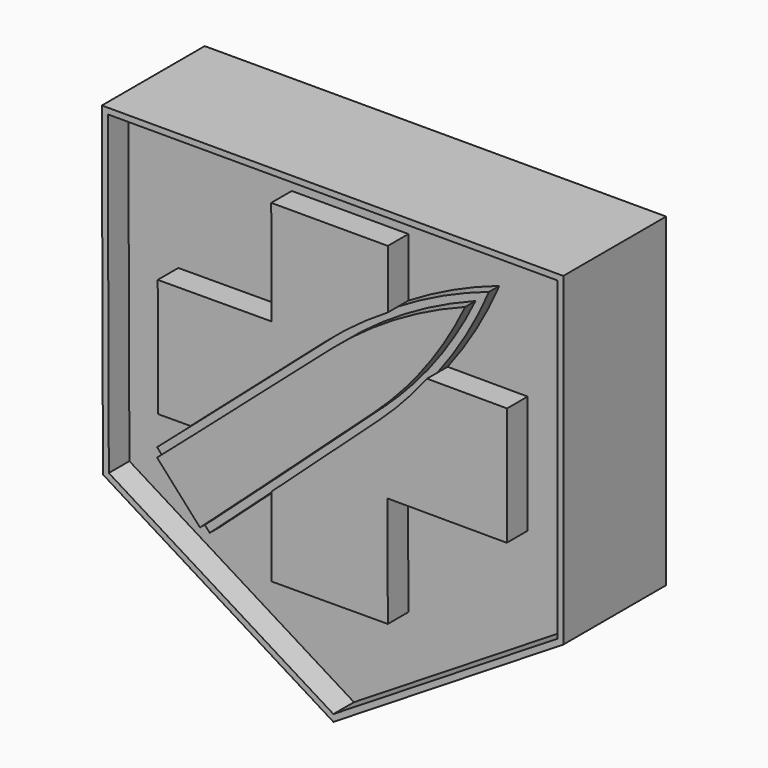
from build123d import *

# Parameters (mm, degrees)
F1_DEPTH = 5
F2_DEPTH = 4
F3_DEPTH = 5
F4_DEPTH = 5
F5_DEPTH = 4.5


with BuildPart() as f1:
    # F0 (on Front) → F1 (new body)
    with BuildSketch(Plane.XZ):
        Polygon((7.1913353167, 10.4446159676), (-10.7517978176, 10.4446159676), (-10.708829388, -2.177285729), (-1.7476085341, -7.7307592146), (7.1913353167, -2.177285729), align=None)
        Polygon((-10.4806626656, -2.0497477769), (-10.522418705, 10.2160163954), (6.9627357446, 10.2160163954), (6.9627357446, -2.0501829333), (-1.7477585324, -7.4617281697), align=None, mode=Mode.SUBTRACT)
    extrude(amount=F1_DEPTH)

    # F0 (on Front) → F2 (join)
    with BuildSketch(Plane.XZ):
        Polygon((6.9627357446, 10.2160163954), (-10.522418705, 10.2160163954), (-10.4806626656, -2.0497477769), (-1.7477585324, -7.4617281697), (6.9627357446, -2.0501829333), align=None)
        with BuildLine():
            Line((-4.15201168, 5.1967860028), (-4.1658212431, 9.2533212155))
            Line((-4.1658212431, 9.2533212155), (0.368804739, 9.2533212155))
            Line((0.368804739, 9.2533212155), (0.368804739, 6.9750594877))
            ThreePointArc((0.368804739, 6.9750594877), (2.0916244454, 7.900781968), (3.9068567567, 8.6287939921))
            ThreePointArc((3.9068567567, 8.6287939921), (3.007254254, 6.8532161956), (1.892815194, 5.2039779605))
            Line((1.892815194, 5.2039779605), (5.0046861868, 5.1967860028))
            Line((5.0046861868, 5.1967860028), (4.994048737, 0.5940932573))
            Line((4.994048737, 0.5940932573), (0.3541867875, 0.6048166102))
            Line((0.3541867875, 0.6048166102), (0.368804739, -3.6891812938))
            Line((0.368804739, -3.6891812938), (-4.15201168, -3.704571398))
            Line((-4.15201168, -3.704571398), (-4.15201168, -0.6250300701))
            Line((-4.15201168, -0.6250300701), (-4.1658212431, -0.6375892587))
            Line((-4.1658212431, -0.6375892587), (-6.9562275894, -3.1560920179))
            Line((-6.9562275894, -3.1560920179), (-9.0041542426, -0.8870663005))
            Line((-9.0041542426, -0.8870663005), (-7.3019780045, 0.5940932573))
            Line((-7.3019780045, 0.5940932573), (-8.5635768523, 0.5897984274))
            Line((-8.5635768523, 0.5897984274), (-8.5792089996, 5.1817146038))
            Line((-8.5792089996, 5.1817146038), (-4.15201168, 5.1967860028))
        make_face(mode=Mode.SUBTRACT)
    extrude(amount=F2_DEPTH)

    # F0 (on Front) → F3 (join)
    with BuildSketch(Plane.XZ):
        with BuildLine():
            Line((0.368804739, 9.2533212155), (-4.1658212431, 9.2533212155))
            Line((-4.1658212431, 9.2533212155), (-4.15201168, 5.1967860028))
            Line((-4.15201168, 5.1967860028), (-8.5792089996, 5.1817146038))
            Line((-8.5792089996, 5.1817146038), (-8.5635768523, 0.5897984274))
            Line((-8.5635768523, 0.5897984274), (-7.3019780045, 0.5940932573))
            Line((-7.3019780045, 0.5940932573), (-2.0346799865, 5.2075001563))
            ThreePointArc((-2.0346799865, 5.2075001563), (-0.8706158878, 6.1425138205), (0.368804739, 6.9750594877))
            Line((0.368804739, 6.9750594877), (0.368804739, 9.2533212155))
        make_face()
        with BuildLine():
            Line((5.0046861868, 5.1967860028), (1.892815194, 5.2039779605))
            ThreePointArc((1.892815194, 5.2039779605), (0.991571407, 4.1358685051), (0, 3.1510414556))
            Line((0, 3.1510414556), (-4.15201168, -0.6250300701))
            Line((-4.15201168, -0.6250300701), (-4.15201168, -3.704571398))
            Line((-4.15201168, -3.704571398), (0.368804739, -3.6891812938))
            Line((0.368804739, -3.6891812938), (0.3541867875, 0.6048166102))
            Line((0.3541867875, 0.6048166102), (4.994048737, 0.5940932573))
            Line((4.994048737, 0.5940932573), (5.0046861868, 5.1967860028))
        make_face()
    extrude(amount=F3_DEPTH)


with BuildPart() as f4:
    # F0 (on Front) → F4 (new body)
    with BuildSketch(Plane.XZ):
        Polygon((-4.15201168, 0.6048166102), (-6.8762639991, 0.5955425051), (-7.1182296611, 0.383614862), (-8.6061118716, -0.911075375), (-6.9360168449, -2.761477859), (-4.3534158373, -0.4305314102), (-4.15201168, -0.2473632108), align=None)
        with BuildLine():
            Line((0.368804739, 5.2075001563), (0.368804739, 6.6465519446))
            ThreePointArc((0.368804739, 6.6465519446), (-0.7739971756, 5.8664839757), (-1.8505915915, 4.9973195979))
            Line((-1.8505915915, 4.9973195979), (-6.8762639991, 0.5955425051))
            Line((-6.8762639991, 0.5955425051), (-4.15201168, 0.6048166102))
            Line((-4.15201168, 0.6048166102), (-4.15201168, -0.2473632108))
            Line((-4.15201168, -0.2473632108), (-0.187986135, 3.357743215))
            ThreePointArc((-0.187986135, 3.357743215), (0.71281892, 4.2462671905), (1.5387405847, 5.2047962752))
            Line((1.5387405847, 5.2047962752), (0.368804739, 5.2075001563))
        make_face()
        with BuildLine():
            ThreePointArc((3.3783849165, 8.1422982604), (1.8370757471, 7.4679048765), (0.368804739, 6.6465519446))
            Line((0.368804739, 6.6465519446), (0.368804739, 5.2075001563))
            Line((0.368804739, 5.2075001563), (1.5387405847, 5.2047962752))
            ThreePointArc((1.5387405847, 5.2047962752), (2.5403065683, 6.6223542638), (3.3783849165, 8.1422982604))
        make_face()
    extrude(amount=F4_DEPTH)


with BuildPart() as f5:
    # F0 (on Front) → F5 (new body)
    with BuildSketch(Plane.XZ):
        with BuildLine():
            Line((0.368804739, 6.6465519446), (0.368804739, 6.9750594877))
            ThreePointArc((0.368804739, 6.9750594877), (-0.8706158878, 6.1425138205), (-2.0346799865, 5.2075001563))
            Line((-2.0346799865, 5.2075001563), (-7.3019780045, 0.5940932573))
            Line((-7.3019780045, 0.5940932573), (-6.8762639991, 0.5955425051))
            Line((-6.8762639991, 0.5955425051), (-1.8505915915, 4.9973195979))
            ThreePointArc((-1.8505915915, 4.9973195979), (-0.7739971756, 5.8664839757), (0.368804739, 6.6465519446))
        make_face()
        Polygon((-6.8762639991, 0.5955425051), (-7.3019780045, 0.5940932573), (-9.0041542426, -0.8870663005), (-6.9562275894, -3.1560920179), (-4.1658212431, -0.6375892587), (-4.15201168, -0.6250300701), (-4.15201168, -0.2473632108), (-4.3534158373, -0.4305314102), (-6.9360168449, -2.761477859), (-8.6061118716, -0.911075375), (-7.1182296611, 0.383614862), align=None)
        with BuildLine():
            ThreePointArc((0, 3.1510414556), (0.991571407, 4.1358685051), (1.892815194, 5.2039779605))
            Line((1.892815194, 5.2039779605), (1.5387405847, 5.2047962752))
            ThreePointArc((1.5387405847, 5.2047962752), (0.71281892, 4.2462671905), (-0.187986135, 3.357743215))
            Line((-0.187986135, 3.357743215), (-4.15201168, -0.2473632108))
            Line((-4.15201168, -0.2473632108), (-4.15201168, -0.6250300701))
            Line((-4.15201168, -0.6250300701), (0, 3.1510414556))
        make_face()
        with BuildLine():
            ThreePointArc((3.9068567567, 8.6287939921), (2.0916244454, 7.900781968), (0.368804739, 6.9750594877))
            Line((0.368804739, 6.9750594877), (0.368804739, 6.6465519446))
            ThreePointArc((0.368804739, 6.6465519446), (1.8370757471, 7.4679048765), (3.3783849165, 8.1422982604))
            ThreePointArc((3.3783849165, 8.1422982604), (2.5403065683, 6.6223542638), (1.5387405847, 5.2047962752))
            Line((1.5387405847, 5.2047962752), (1.892815194, 5.2039779605))
            ThreePointArc((1.892815194, 5.2039779605), (3.007254254, 6.8532161956), (3.9068567567, 8.6287939921))
        make_face()
    extrude(amount=F5_DEPTH)


solid = Compound([f1.part, f4.part, f5.part])
